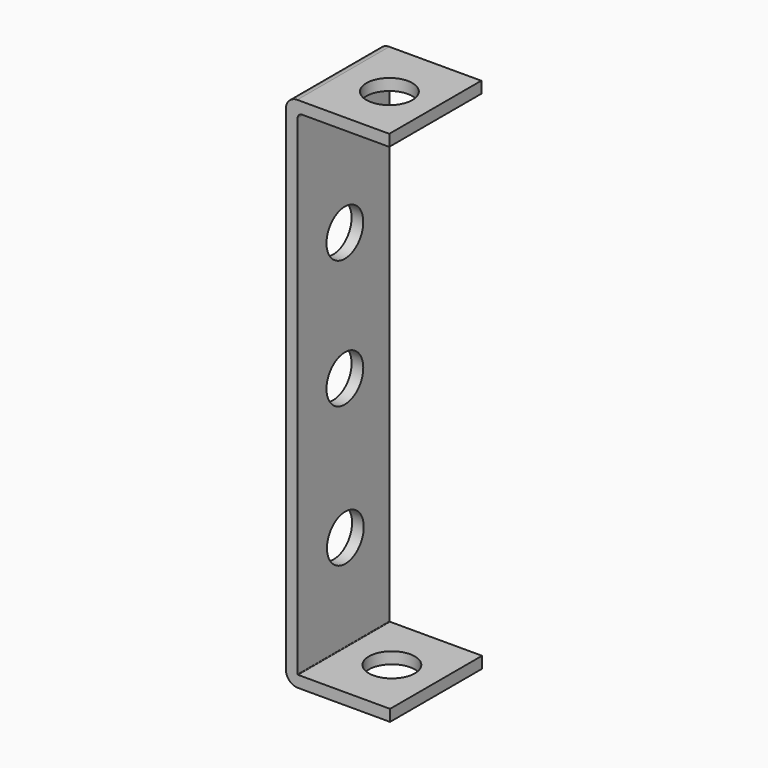
from build123d import *

# Parameters (mm, degrees)
CYLINDER030_R               = 2
CYLINDER030_DEPTH           = 10
CYLINDER030_PITCH_ANGLE     = 90
CYLINDER030_PLACEMENT_ANGLE = 7e-06
CYLINDER031_R               = 2
CYLINDER031_DEPTH           = 10
CYLINDER031_PITCH_ANGLE     = 90
CYLINDER031_PLACEMENT_ANGLE = 7e-06
CYLINDER026_R               = 2
CYLINDER026_DEPTH           = 2
CYLINDER026_ROLL_ANGLE      = -88.507054
CYLINDER026_PITCH_ANGLE     = -87.01751
CYLINDER026_PLACEMENT_ANGLE = -92.244015
CYLINDER028_R               = 2
CYLINDER028_DEPTH           = 2
CYLINDER028_PLACEMENT_ANGLE = 90.00001
CYLINDER029_R               = 2
CYLINDER029_DEPTH           = 2
CYLINDER029_ROLL_ANGLE      = 90
CYLINDER027_R               = 2
CYLINDER027_DEPTH           = 2
CYLINDER027_ROLL_ANGLE      = 90
CYLINDER025_R               = 2
CYLINDER025_DEPTH           = 2
CYLINDER025_ROLL_ANGLE      = -88.507054
CYLINDER025_PITCH_ANGLE     = -87.01751
CYLINDER025_PLACEMENT_ANGLE = -92.244015
PAD006_DEPTH                = 10
CUT024_PITCH_ANGLE          = 90
CUT024_PLACEMENT_ANGLE      = -90


with BuildPart() as cylinder030:
    # Cylinder030 → Cylinder030 (new body)
    with BuildSketch(Plane.XY):
        Circle(CYLINDER030_R)
    extrude(amount=CYLINDER030_DEPTH)


with BuildPart() as cylinder030_1:
    # Cylinder030 pitch: moved
    add(cylinder030.part.rotate(Axis((0, 0, 0), (0, 1, 0)), CYLINDER030_PITCH_ANGLE))


with BuildPart() as cylinder030_2:
    # Cylinder030 placement: moved
    add(cylinder030_1.part.moved(Location((15.49, 3.9, 4.87))).rotate(Axis((15.49, 3.9, 4.87), (0, 0, 1)), CYLINDER030_PLACEMENT_ANGLE))


with BuildPart() as cylinder031:
    # Cylinder031 → Cylinder031 (new body)
    with BuildSketch(Plane.XY):
        Circle(CYLINDER031_R)
    extrude(amount=CYLINDER031_DEPTH)


with BuildPart() as cylinder031_1:
    # Cylinder031 pitch: moved
    add(cylinder031.part.rotate(Axis((0, 0, 0), (0, 1, 0)), CYLINDER031_PITCH_ANGLE))


with BuildPart() as cylinder031_2:
    # Cylinder031 placement: moved
    add(cylinder031_1.part.moved(Location((-28.4147, 3.9, 5.14))).rotate(Axis((-28.4147, 3.9, 5.14), (0, 0, 1)), CYLINDER031_PLACEMENT_ANGLE))


with BuildPart() as cylinder026:
    # Cylinder026 → Cylinder026 (new body)
    with BuildSketch(Plane.XY):
        Circle(CYLINDER026_R)
    extrude(amount=CYLINDER026_DEPTH)


with BuildPart() as cylinder026_1:
    # Cylinder026 roll: moved
    add(cylinder026.part.rotate(Axis((0, 0, 0), (1, 0, 0)), CYLINDER026_ROLL_ANGLE))


with BuildPart() as cylinder026_2:
    # Cylinder026 pitch: moved
    add(cylinder026_1.part.rotate(Axis((0, 0, 0), (0, 1, 0)), CYLINDER026_PITCH_ANGLE))


with BuildPart() as cylinder026_3:
    # Cylinder026 placement: moved
    add(cylinder026_2.part.moved(Location((-26, 5.29, 4.9))).rotate(Axis((-26, 5.29, 4.9), (0, 0, 1)), CYLINDER026_PLACEMENT_ANGLE))


with BuildPart() as cylinder028:
    # Cylinder028 → Cylinder028 (new body)
    with BuildSketch(Plane.XY):
        Circle(CYLINDER028_R)
    extrude(amount=CYLINDER028_DEPTH)


with BuildPart() as cylinder028_1:
    # Cylinder028 placement: moved
    add(cylinder028.part.moved(Location((-11.1555, 0, 4.86401))).rotate(Axis((-11.1555, 0, 4.86401), (1, 0, 0)), CYLINDER028_PLACEMENT_ANGLE))


with BuildPart() as cylinder029:
    # Cylinder029 → Cylinder029 (new body)
    with BuildSketch(Plane.XY):
        Circle(CYLINDER029_R)
    extrude(amount=CYLINDER029_DEPTH)


with BuildPart() as cylinder029_1:
    # Cylinder029 roll: moved
    add(cylinder029.part.rotate(Axis((0, 0, 0), (1, 0, 0)), CYLINDER029_ROLL_ANGLE))


with BuildPart() as cylinder029_2:
    # Cylinder029 placement: moved
    add(cylinder029_1.part.moved(Location((0, 0, 4.86401))))


with BuildPart() as cylinder027:
    # Cylinder027 → Cylinder027 (new body)
    with BuildSketch(Plane.XY):
        Circle(CYLINDER027_R)
    extrude(amount=CYLINDER027_DEPTH)


with BuildPart() as cylinder027_1:
    # Cylinder027 roll: moved
    add(cylinder027.part.rotate(Axis((0, 0, 0), (1, 0, 0)), CYLINDER027_ROLL_ANGLE))


with BuildPart() as cylinder027_2:
    # Cylinder027 placement: moved
    add(cylinder027_1.part.moved(Location((12.2129, 0, 4.81114))))


with BuildPart() as cylinder025:
    # Cylinder025 → Cylinder025 (new body)
    with BuildSketch(Plane.XY):
        Circle(CYLINDER025_R)
    extrude(amount=CYLINDER025_DEPTH)


with BuildPart() as cylinder025_1:
    # Cylinder025 roll: moved
    add(cylinder025.part.rotate(Axis((0, 0, 0), (1, 0, 0)), CYLINDER025_ROLL_ANGLE))


with BuildPart() as cylinder025_2:
    # Cylinder025 pitch: moved
    add(cylinder025_1.part.rotate(Axis((0, 0, 0), (0, 1, 0)), CYLINDER025_PITCH_ANGLE))


with BuildPart() as cylinder025_3:
    # Cylinder025 placement: moved
    add(cylinder025_2.part.moved(Location((25, 5.38, 4.9))).rotate(Axis((25, 5.38, 4.9), (0, 0, 1)), CYLINDER025_PLACEMENT_ANGLE))


with BuildPart() as cut024:
    # Sketch007 → Pad006 (new body)
    with BuildSketch(Plane.XY):
        with BuildLine():
            Line((20.546084, -1.208272), (-22.415471, -1.208272))
            ThreePointArc((-23.400725, -0.223018), (-23.112151, -0.919698), (-22.415471, -1.208272))
            Line((-23.400725, 7.776982), (-23.400725, -0.223018))
            Line((-23.400725, 7.776982), (-22.400725, 7.776982))
            Line((-22.400725, 7.776982), (-22.400725, 0.197829))
            ThreePointArc((-22.400725, 0.197829), (-22.286166, -0.07874), (-22.009596, -0.193299))
            Line((-22.009596, -0.193299), (20.555186, -0.193299))
            ThreePointArc((20.555186, -0.193299), (20.586324, -0.180401), (20.599222, -0.149263))
            Line((20.599222, 7.844865), (20.599222, -0.149263))
            Line((21.599222, 7.844865), (20.599222, 7.844865))
            Line((21.599222, 7.844865), (21.599222, -0.155135))
            ThreePointArc((20.546084, -1.208272), (21.290765, -0.899815), (21.599222, -0.155135))
        make_face()
    extrude(amount=PAD006_DEPTH)

    # Cut005: cut Cylinder025
    add(cylinder025_3.part, mode=Mode.SUBTRACT)

    # Cut006: cut Cylinder027
    add(cylinder027_2.part, mode=Mode.SUBTRACT)

    # Cut007: cut Cylinder029
    add(cylinder029_2.part, mode=Mode.SUBTRACT)

    # Cut008: cut Cylinder028
    add(cylinder028_1.part, mode=Mode.SUBTRACT)

    # Cut009: cut Cylinder026
    add(cylinder026_3.part, mode=Mode.SUBTRACT)

    # Cut018: cut Cylinder031
    add(cylinder031_2.part, mode=Mode.SUBTRACT)

    # Cut024: cut Cylinder030
    add(cylinder030_2.part, mode=Mode.SUBTRACT)


with BuildPart() as cut024_1:
    # Cut024 pitch: moved
    add(cut024.part.rotate(Axis((0, 0, 0), (0, 1, 0)), CUT024_PITCH_ANGLE))


with BuildPart() as cut024_2:
    # Cut024 placement: moved
    add(cut024_1.part.moved(Location((-114, 44, 26))).rotate(Axis((-114, 44, 26), (0, 0, 1)), CUT024_PLACEMENT_ANGLE))


solid = cut024_2.part
